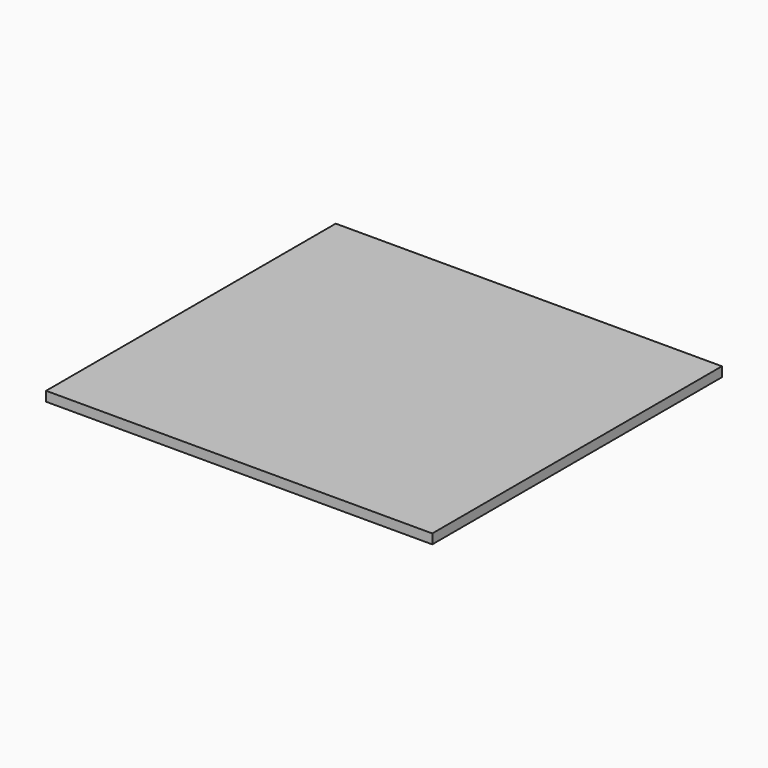
from build123d import *

# Parameters (mm, degrees)
SKETCH_W  = 800
SKETCH_H  = 750
PAD_DEPTH = 20


with BuildPart() as part:
    # Sketch → Pad (new body)
    with BuildSketch(Plane.XY):
        Rectangle(SKETCH_W, SKETCH_H)
    extrude(amount=PAD_DEPTH)


solid = part.part
